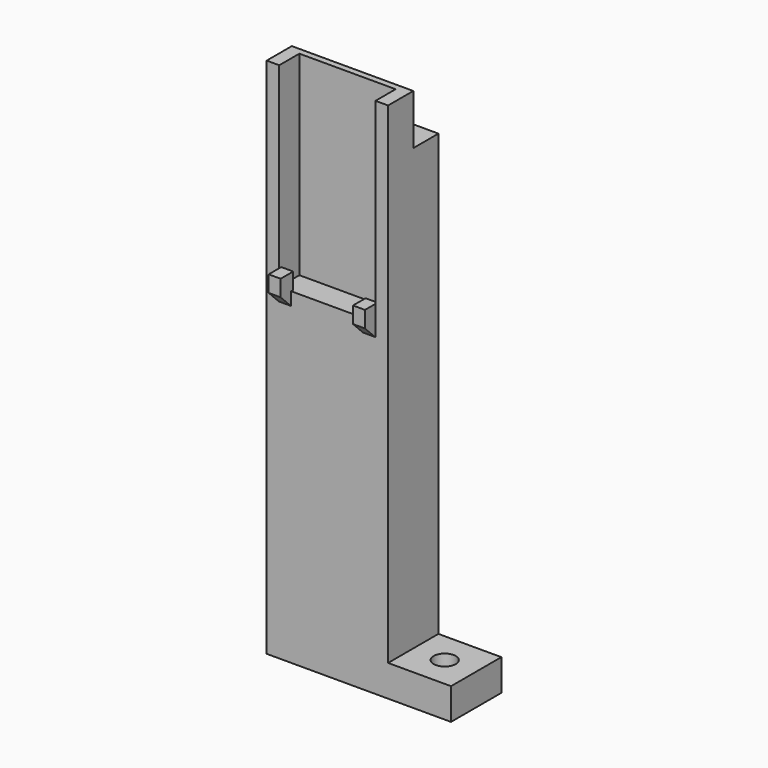
from build123d import *

# Parameters (mm, degrees)
F0_W      = 15.3
F0_H      = 31
F1_DEPTH  = 1
F2_DEPTH  = 5
F3_W      = 1.9
F3_H      = 2.1
F3_H_2    = 0.4
F4_DEPTH  = 2.6
F5_W      = 1.9
F5_H      = 2
F6_DEPTH  = 2.1
F7_W      = 19.3
F7_H      = 5
F8_DEPTH  = 50
F9_SIZE   = 2
F10_DEPTH = 25
F11_W     = 10
F11_H     = 10
F11_R     = 1.75
F12_DEPTH = 5


with BuildPart() as f1:
    # F0 (on Front) → F1 (new body)
    with BuildSketch(Plane.XZ):
        with Locations((0.723570025, -27.1247635409)):
            Rectangle(F0_W, F0_H)
    extrude(amount=F1_DEPTH)

    # F0 (on Front) → F2 (join)
    with BuildSketch(Plane.XZ):
        Polygon((-6.926429975, -42.6247635409), (-6.926429975, -11.6247635409), (-8.926429975, -11.6247635409), (-8.926429975, -44.6247635409), (10.373570025, -44.6247635409), (10.373570025, -11.6247635409), (8.373570025, -11.6247635409), (8.373570025, -42.6247635409), align=None)
    extrude(amount=F2_DEPTH)

    # F3 (on face) → F4 (join)
    with BuildSketch(Plane.XY.offset(-42.6247635409)):
        with Locations((-5.976429975, -6.05)):
            Rectangle(F3_W, F3_H)
        with Locations((-5.976429975, -4.8)):
            Rectangle(F3_W, F3_H_2)
        with Locations((7.423570025, -6.05)):
            Rectangle(F3_W, F3_H)
        with Locations((7.423570025, -4.8)):
            Rectangle(F3_W, F3_H_2)
    extrude(amount=F4_DEPTH)

    # F5 (on face) → F6 (join)
    with BuildSketch(Plane.XZ.offset(5)):
        with Locations((-5.976429975, -43.6247635409)):
            Rectangle(F5_W, F5_H)
        with Locations((7.423570025, -43.6247635409)):
            Rectangle(F5_W, F5_H)
    extrude(amount=F6_DEPTH)

    # F7 (on face) → F8 (join)
    with BuildSketch(Plane(origin=(0, 0, -44.6247635409), x_dir=(1, 0, 0), z_dir=(0, 0, -1))):
        with Locations((0.723570025, -2.5)):
            Rectangle(F7_W, F7_H)
        Polygon((-6.926429975, 5), (-8.926429975, 5), (-8.926429975, 0), (10.373570025, 0), (10.373570025, 5), (8.373570025, 5), (6.473570025, 5), (-5.026429975, 5), align=None)
    extrude(amount=F8_DEPTH)

    # F9
    f9_edges = [f1.edges().sort_by_distance(p)[0] for p in [
        (7.42357, -7.1, -44.624764),
        (-5.97643, -7.1, -44.624764),
    ]]
    chamfer(f9_edges, length=F9_SIZE)

    # F10 (add): a face of the model
    f10_faces = [f1.faces().sort_by_distance(p)[0] for p in [
        (0.723570025, 2.5, -44.6247635409),
    ]]
    extrude(f10_faces, amount=F10_DEPTH)

    # F11 (on face) → F12 (join)
    with BuildSketch(Plane(origin=(0, 0, -94.6247635409), x_dir=(1, 0, 0), z_dir=(0, 0, -1))):
        with Locations((15.373570025, 0)):
            Rectangle(F11_W, F11_H)
        with Locations((15.373570025, 0)):
            Circle(F11_R, mode=Mode.SUBTRACT)
    extrude(amount=-F12_DEPTH)


solid = f1.part
